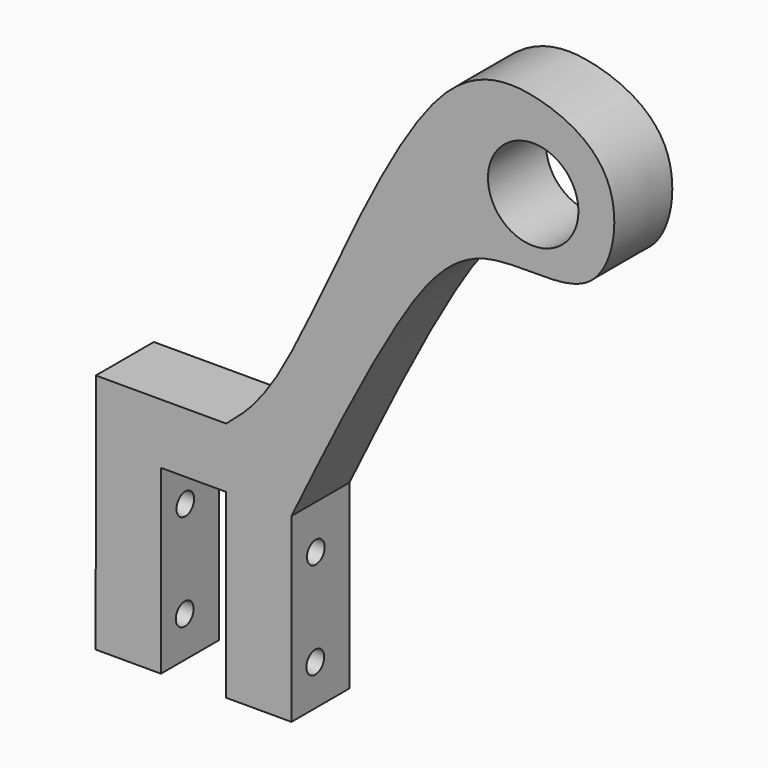
from build123d import *

# Parameters (mm, degrees)
F0_R     = 6.2392440764
F1_DEPTH = 10
F2_R     = 1.5216344036
F2_R_2   = 1.5334772141
F3_DEPTH = 88


with BuildPart() as f1:
    # F0 (on Front) → F1 (new body)
    with BuildSketch(Plane.XZ):
        with BuildLine():
            Line((-47.9968211239, 8.2952087082), (-48.0188318386, -25))
            Line((-48.0188318386, -25), (-39.0188318386, -25))
            Line((-39.0188318386, -25), (-39.0188318386, 0))
            Line((-39.0188318386, 0), (-30.0188318386, 0))
            Line((-30.0188318386, 0), (-30.0188318386, -25))
            Line((-30.0188318386, -25), (-21.0188318386, -25))
            Line((-21.0188318386, -25), (-21.0188318386, 0))
            add(Edge.make_bspline(
                [(-30.0188318386, 8.2952087082), (-27.756145266, 10.1917385119), (-20.9320496226, 15.9115323746), (-3.6489941332, 62.0300929768), (12.9052995488, 62.9737222559), (25.3834224743, 56.1590653034), (22.2222261346, 37.6579842868), (3.771827141, 43.0549659429), (-7.7076701904, 27.2849277684), (-16.1547910439, 9.9702043483), (-21.0188318386, 0)],
                knots=[0, 0, 0, 0, 0.0982481871, 0.2963092785, 0.4031177884, 0.5037221554, 0.6077667855, 0.7178142121, 0.8375111227, 1, 1, 1, 1], degree=3))
            Line((-30.0188318386, 8.2952087082), (-47.9968211239, 8.2952087082))
        make_face()
        with Locations((12.3227015138, 49.8784333467)):
            Circle(F0_R, mode=Mode.SUBTRACT)
    extrude(amount=F1_DEPTH)

    # F2 (on Right) → F3 (cut)
    with BuildSketch(Plane.YZ):
        with Locations((-5.801233463, -6.0865385458)):
            Circle(F2_R)
        with Locations((-5.8963387273, -19.4008424878)):
            Circle(F2_R_2)
    extrude(amount=-F3_DEPTH, mode=Mode.SUBTRACT)


solid = f1.part
